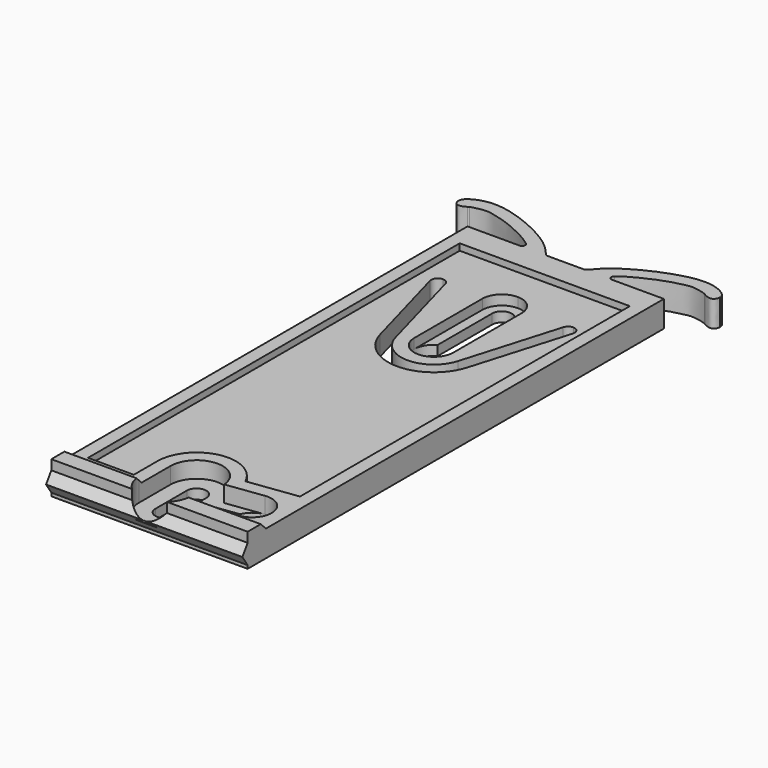
from build123d import *

# Parameters (mm, degrees)
F1_DEPTH  = 6.5
F2_W      = 73.5
F2_H      = 1.5
F2_W_2    = 2
F2_W_3    = 6.6465047852
F3_DEPTH  = 50
F5_DEPTH  = 1
F7_DEPTH  = 1.5
F9_DEPTH  = 3.001
F11_DEPTH = 3.5
F13_DEPTH = 3.001
F15_DEPTH = 4.501
F16_W     = 2
F16_H     = 1.5
F17_DEPTH = 35.0010001


with BuildPart() as f1:
    # F0 (on Top) → F1 (new body)
    with BuildSketch(Plane.XY):
        with BuildLine():
            Line((30.3608298709, -80.5007317134), (30.3608298709, -0.0007317134))
            Line((30.3608298709, -0.0007317134), (22.4416209697, -0.0001100939))
            ThreePointArc((22.4416209697, -0.0001100939), (21.9685167959, 0.3382257376), (22.1356678285, 0.8953246754))
            add(Edge.make_bspline(
                [(33.319308422, 4.0533897907), (32.9559024185, 4.2176536716), (31.2423554642, 4.6549930103), (29.7916183503, 4.3263348165), (27.4497840509, 3.7474168625), (24.4635517942, 2.3707949643), (23.0337683596, 1.5682573023), (22.3114927488, 1.0313802055), (22.1356678285, 0.8953246754)],
                knots=[0.0589525807, 0.0589525807, 0.0589525807, 0.0589525807, 0.2084655259, 0.3406912661, 0.5034574465, 0.695626218, 0.8481299097, 0.8973478452, 0.8973478452, 0.8973478452, 0.8973478452], degree=3))
            add(Edge.make_bspline(
                [(33.5081572988, 3.9418895581), (33.4646389296, 3.9769513142), (33.408367825, 4.0131338703), (33.319308422, 4.0533897907)],
                knots=[0.0223116515, 0.0223116515, 0.0223116515, 0.0223116515, 0.0589525807, 0.0589525807, 0.0589525807, 0.0589525807], degree=3))
            add(Edge.make_bspline(
                [(33.5081572988, 3.9418895581), (33.6207103, 3.8767966077), (33.8880381438, 3.7306275529), (34.2860507918, 3.5988917793), (34.8289973567, 3.5211599935), (35.2920507954, 3.9817640743), (35.3382085728, 4.3319812852), (35.3608298709, 4.5)],
                knots=[0.0754374219, 0.0754374219, 0.0754374219, 0.0754374219, 0.2108853021, 0.4006490166, 0.5951970808, 0.8037779077, 1, 1, 1, 1], degree=3))
            add(Edge.make_bspline(
                [(35.3608298709, 4.5), (35.3248919452, 4.7187200999), (35.2093562526, 5.4346849196), (30.9882287702, 7.7243652491), (21.2176834289, 3.310452142), (19.2040500518, 1.0156825734), (18.5103635287, 0.1805269572)],
                knots=[0, 0, 0, 0, 0.1053172858, 0.3495958997, 0.7506766532, 0.9832369693, 0.9832369693, 0.9832369693, 0.9832369693], degree=3))
            ThreePointArc((18.5103635287, 0.1805269572), (18.3381800891, 0.0473762482), (18.1257377691, 0))
            Line((18.1257377691, 0), (15.3608298709, 0))
            Line((15.3608298709, 0), (12.5959219726, 0))
            ThreePointArc((12.5959219726, 0), (12.3834796526, 0.0473762482), (12.211296213, 0.1805269572))
            add(Edge.make_bspline(
                [(-4.6391701291, 4.5), (-4.6032322035, 4.7187200999), (-4.4876965109, 5.4346849196), (-0.2665690285, 7.7243652491), (9.5039763128, 3.310452142), (11.5176096899, 1.0156825734), (12.211296213, 0.1805269572)],
                knots=[0, 0, 0, 0, 0.1053172858, 0.3495958997, 0.7506766532, 0.9832369693, 0.9832369693, 0.9832369693, 0.9832369693], degree=3))
            add(Edge.make_bspline(
                [(-2.7864975571, 3.9418895581), (-2.8990505582, 3.8767966077), (-3.1663784021, 3.7306275529), (-3.5643910501, 3.5988917793), (-4.107337615, 3.5211599935), (-4.5703910537, 3.9817640743), (-4.616548831, 4.3319812852), (-4.6391701291, 4.5)],
                knots=[0.0754374219, 0.0754374219, 0.0754374219, 0.0754374219, 0.2108853021, 0.4006490166, 0.5951970808, 0.8037779077, 1, 1, 1, 1], degree=3))
            add(Edge.make_bspline(
                [(-2.7864975571, 3.9418895581), (-2.7429791879, 3.9769513142), (-2.6867080833, 4.0131338703), (-2.5976486803, 4.0533897907)],
                knots=[0.0223116515, 0.0223116515, 0.0223116515, 0.0223116515, 0.0589525807, 0.0589525807, 0.0589525807, 0.0589525807], degree=3))
            add(Edge.make_bspline(
                [(-2.5976486803, 4.0533897907), (-2.2342426768, 4.2176536716), (-0.5206957225, 4.6549930103), (0.9300413914, 4.3263348165), (3.2718756908, 3.7474168625), (6.2581079476, 2.3707949643), (7.6878913821, 1.5682573023), (8.4101669929, 1.0313802055), (8.5859919132, 0.8953246754)],
                knots=[0.0589525807, 0.0589525807, 0.0589525807, 0.0589525807, 0.2084655259, 0.3406912661, 0.5034574465, 0.695626218, 0.8481299097, 0.8973478452, 0.8973478452, 0.8973478452, 0.8973478452], degree=3))
            ThreePointArc((8.5859919132, 0.8953246754), (8.7531429458, 0.3382257376), (8.280038772, -0.0001100939))
            Line((8.280038772, -0.0001100939), (0.3608298709, -0.0007317134))
            Line((0.3608298709, -0.0007317134), (0.3608298709, -80.5007317134))
            Line((0.3608298709, -80.5007317134), (15.3608298709, -80.5007317134))
            Line((15.3608298709, -80.5007317134), (30.3608298709, -80.5007317134))
        make_face()
        with BuildLine():
            add(Edge.make_bspline(
                [(33.5081572988, 3.9418895581), (33.4646389296, 3.9769513142), (33.408367825, 4.0131338703), (33.319308422, 4.0533897907)],
                knots=[0.0223116515, 0.0223116515, 0.0223116515, 0.0223116515, 0.0589525807, 0.0589525807, 0.0589525807, 0.0589525807], degree=3))
            add(Edge.make_bspline(
                [(33.319308422, 4.0533897907), (33.3824086397, 4.0157037165), (33.4454711333, 3.9781429446), (33.5081572988, 3.9418895581)],
                knots=[0, 0, 0, 0, 0.0754374219, 0.0754374219, 0.0754374219, 0.0754374219], degree=3))
        make_face()
        with BuildLine():
            add(Edge.make_bspline(
                [(-2.5976486803, 4.0533897907), (-2.660748898, 4.0157037165), (-2.7238113916, 3.9781429446), (-2.7864975571, 3.9418895581)],
                knots=[0, 0, 0, 0, 0.0754374219, 0.0754374219, 0.0754374219, 0.0754374219], degree=3))
            add(Edge.make_bspline(
                [(-2.7864975571, 3.9418895581), (-2.7429791879, 3.9769513142), (-2.6867080833, 4.0131338703), (-2.5976486803, 4.0533897907)],
                knots=[0.0223116515, 0.0223116515, 0.0223116515, 0.0223116515, 0.0589525807, 0.0589525807, 0.0589525807, 0.0589525807], degree=3))
        make_face()
    extrude(amount=F1_DEPTH)

    # F2 (on face) → F3 (cut, symmetric)
    with BuildSketch(Plane(origin=(0.3608298709, 0, 0), x_dir=(0, -1, 0), z_dir=(-1, 0, 0))):
        Polygon((0.0007317134, 6.5), (0.0007317134, 5.5), (76.0007317134, 5.5), (77.0007317134, 6.5), align=None)
        with Locations((40.7507317134, 0.75)):
            Rectangle(F2_W, F2_H)
        with Locations((1.0007317134, 0.75)):
            Rectangle(F2_W_2, F2_H)
        Polygon((80.5007317134, 6.5), (79.5007317134, 6.5), (79.5007317134, 5), (80.5007317134, 3.5), align=None)
        Polygon((79.5007317134, 2), (79.5007317134, 0), (80.5007317134, 0), (80.5007317134, 3.5), align=None)
        Polygon((-6.6004036926, 5.5), (0.0007317134, 5.5), (0.0007317134, 6.5), (0.0007317134, 6.8279230036), (-6.6004036926, 6.8279230036), align=None)
        with Locations((-3.3225206792, 0.75)):
            Rectangle(F2_W_3, F2_H)
    extrude(amount=F3_DEPTH, both=True, mode=Mode.SUBTRACT)

    # F4 (on face) → F5 (cut)
    with BuildSketch(Plane.XY.offset(5.5)):
        with BuildLine():
            Line((28.3608298709, -4), (2.3608298709, -4))
            Line((2.3608298709, -4), (2.3608298709, -75))
            Line((2.3608298709, -75), (9.3608298709, -75))
            Line((9.3608298709, -75), (9.3608298709, -70.5))
            ThreePointArc((9.3608298709, -70.5), (14.0814035041, -64.6379979383), (20.8151859282, -68))
            Line((20.8151859282, -68), (28.3608298709, -67))
            Line((28.3608298709, -67), (28.3608298709, -4))
        make_face()
    extrude(amount=-F5_DEPTH, mode=Mode.SUBTRACT)

    # F6 (on face) → F7 (cut)
    with BuildSketch(Plane.XY.offset(4.5)):
        with BuildLine():
            ThreePointArc((18.2155409763, -12), (17.3560342673, -9.8980274809), (15.270015329, -9.0004946166))
            Line((15.270015329, -9.0004946166), (14.9252189113, -27.985919138))
            ThreePointArc((14.9252189113, -27.985919138), (17.2316056832, -27.2215947194), (18.2155409763, -25))
            Line((18.2155409763, -25), (18.2155409763, -12))
        make_face()
        with BuildLine():
            Line((14.9252189113, -27.985919138), (15.270015329, -9.0004946166))
            ThreePointArc((15.270015329, -9.0004946166), (13.1135684572, -9.859506709), (12.2155409763, -12))
            Line((12.2155409763, -12), (12.2155409763, -25))
            ThreePointArc((12.2155409763, -25), (12.9939462569, -27.0160647069), (14.9252189113, -27.985919138))
        make_face()
    extrude(amount=-F7_DEPTH, mode=Mode.SUBTRACT)

    # F8 (on face) → F9 (cut, through all)
    with BuildSketch(Plane.XY.offset(3)):
        with BuildLine():
            Line((13.7155409763, -12), (13.7155409763, -22.4019237886))
            ThreePointArc((13.7155409763, -22.4019237886), (15.2155409763, -28), (16.7155409763, -22.4019237886))
            Line((16.7155409763, -22.4019237886), (16.7155409763, -12))
            ThreePointArc((16.7155409763, -12), (15.2155409763, -10.5), (13.7155409763, -12))
        make_face()
    extrude(amount=-F9_DEPTH, mode=Mode.SUBTRACT)

    # F10 (on face) → F11 (cut)
    with BuildSketch(Plane.XY.offset(6.5)):
        with BuildLine():
            Line((24.9926985819, -69.4638545445), (19.3504200553, -70.2116076282))
            ThreePointArc((19.3504200553, -70.2116076282), (15.2165397773, -66.502603301), (11.3608298709, -70.5))
            Line((11.3608298709, -70.5), (11.3608298709, -76.5))
            ThreePointArc((11.3608298709, -76.5), (15.479073931, -80.4982519108), (19.353839042, -76.2636152303))
            Line((19.353839042, -76.2636152303), (25.7809671574, -75.4118485469))
            ThreePointArc((25.7809671574, -75.4118485469), (28.3608298709, -72.0437172579), (24.9926985819, -69.4638545445))
        make_face()
    extrude(amount=-F11_DEPTH, mode=Mode.SUBTRACT)

    # F12 (on face) → F13 (cut, through all)
    with BuildSketch(Plane.XY.offset(3)):
        with BuildLine():
            ThreePointArc((13.8608298709, -70.5), (14.3001696991, -71.5606601718), (15.3608298709, -72))
            Line((15.3608298709, -72), (15.3608298709, -70.5))
            Line((15.3608298709, -70.5), (13.8608298709, -70.5))
        make_face()
        with BuildLine():
            Line((15.3608298709, -76.5), (15.3608298709, -75))
            ThreePointArc((15.3608298709, -75), (14.3001696991, -75.4393398282), (13.8608298709, -76.5))
            Line((13.8608298709, -76.5), (15.3608298709, -76.5))
        make_face()
        with BuildLine():
            Line((13.8608298709, -70.5), (15.3608298709, -70.5))
            Line((15.3608298709, -70.5), (16.8608298709, -70.5))
            ThreePointArc((16.8608298709, -70.5), (15.3608298709, -69), (13.8608298709, -70.5))
        make_face()
        with BuildLine():
            Line((16.8608298709, -76.5), (15.3608298709, -76.5))
            Line((15.3608298709, -76.5), (13.8608298709, -76.5))
            ThreePointArc((13.8608298709, -76.5), (15.3608298709, -78), (16.8608298709, -76.5))
        make_face()
        with BuildLine():
            ThreePointArc((13.8608298709, -76.5), (14.3001696991, -75.4393398282), (15.3608298709, -75))
            Line((15.3608298709, -75), (15.3608298709, -72))
            ThreePointArc((15.3608298709, -72), (14.3001696991, -71.5606601718), (13.8608298709, -70.5))
            Line((13.8608298709, -70.5), (13.8608298709, -76.5))
        make_face()
        with BuildLine():
            Line((15.3608298709, -72), (15.3608298709, -75))
            Line((15.3608298709, -75), (15.3608298709, -76.5))
            Line((15.3608298709, -76.5), (16.8608298709, -76.5))
            Line((16.8608298709, -76.5), (16.8608298709, -75.0808905657))
            Line((16.8608298709, -75.0808905657), (23.0083430597, -74.266180352))
            ThreePointArc((23.0083430597, -74.266180352), (22.4128358684, -72.8319858335), (22.6142087719, -71.2921833508))
            Line((22.6142087719, -71.2921833508), (16.8608298709, -72.054660211))
            Line((16.8608298709, -72.054660211), (16.8608298709, -70.5))
            ThreePointArc((16.8608298709, -70.5), (16.4214900426, -71.5606601718), (15.3608298709, -72))
        make_face()
        with BuildLine():
            Line((15.3608298709, -70.5), (15.3608298709, -72))
            ThreePointArc((15.3608298709, -72), (16.4214900426, -71.5606601718), (16.8608298709, -70.5))
            Line((16.8608298709, -70.5), (15.3608298709, -70.5))
        make_face()
        with BuildLine():
            ThreePointArc((22.6142087719, -71.2921833508), (22.4128358684, -72.8319858335), (23.0083430597, -74.266180352))
            ThreePointArc((23.0083430597, -74.266180352), (24.2411646748, -75.2104756434), (25.7809671574, -75.4118485469))
            ThreePointArc((25.7809671574, -75.4118485469), (27.6432019511, -74.4149197206), (28.3868328696, -72.4378515457))
            ThreePointArc((28.3868328696, -72.4378515457), (27.3639010446, -70.1814824643), (24.9926985819, -69.4638545445))
            ThreePointArc((24.9926985819, -69.4638545445), (23.5585040633, -70.0593617358), (22.6142087719, -71.2921833508))
        make_face()
    extrude(amount=-F13_DEPTH, mode=Mode.SUBTRACT)

    # F14 (on face) → F15 (cut, through all)
    with BuildSketch(Plane.XY.offset(4.5)):
        with BuildLine():
            ThreePointArc((20.0101732714, -26.4182740055), (15.1705519516, -29.9997975947), (10.3961633603, -26.3317655177))
            Line((10.3961633603, -26.3317655177), (6.3621837571, -11.7336468965))
            ThreePointArc((6.3621837571, -11.7336468965), (6.003967749, -11.2042760832), (5.3983082339, -11))
            ThreePointArc((5.3983082339, -11), (4.6025843171, -11.3943404849), (4.4344327107, -12.2663531035))
            Line((4.4344327107, -12.2663531035), (8.4684123139, -26.8644717248))
            ThreePointArc((8.4684123139, -26.8644717248), (15.1525563417, -31.9997166325), (21.9280261894, -26.9855836078))
            Line((21.9280261894, -26.9855836078), (26.2769234926, -12.2836548011))
            ThreePointArc((26.2769234926, -12.2836548011), (26.1191383448, -11.4015247712), (25.3179970336, -11))
            ThreePointArc((25.3179970336, -11), (24.7195218048, -11.1988586888), (24.3590705746, -11.7163451989))
            Line((24.3590705746, -11.7163451989), (20.0101732714, -26.4182740055))
        make_face()
    extrude(amount=-F15_DEPTH, mode=Mode.SUBTRACT)

    # F16 (on face) → F17 (cut, through all)
    with BuildSketch(Plane.YZ.offset(30.3608298709)):
        with Locations((-78.5007317134, 0.75)):
            Rectangle(F16_W, F16_H)
        with Locations((-3.0007317134, 0.75)):
            Rectangle(F16_W, F16_H)
    extrude(amount=-F17_DEPTH, mode=Mode.SUBTRACT)


solid = f1.part
